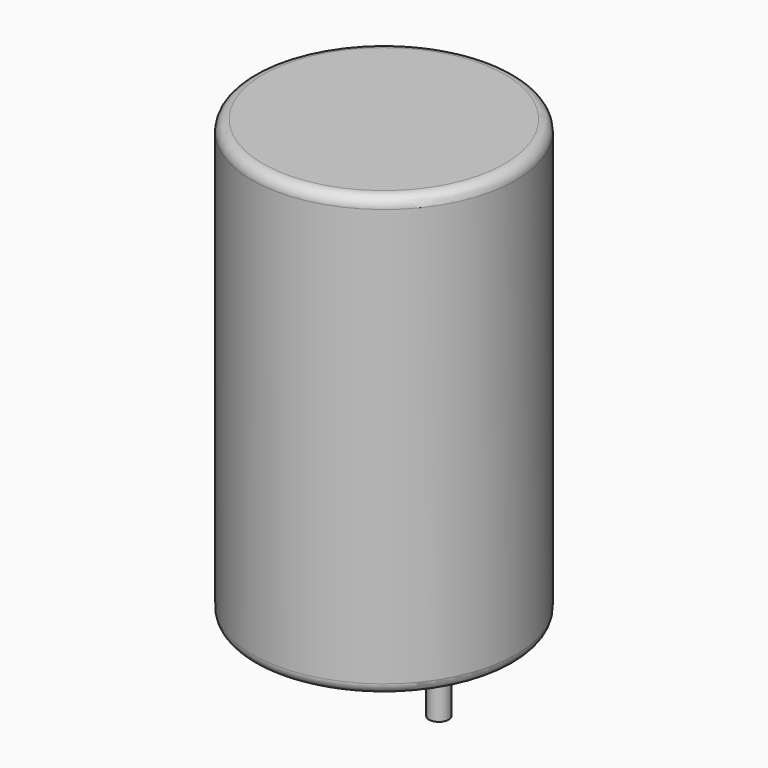
from build123d import *

# Parameters (mm, degrees)
SKETCH001_R       = 0.45
PAD001_DEPTH      = 10
PAD001_DEPTH_BACK = 3.5
SKETCH_R          = 6
PAD_DEPTH         = 20
FILLET_R          = 0.5


with BuildPart() as pad001:
    # Sketch001 → Pad001 (new body, two sides)
    with BuildSketch(Plane.XY.offset(0.5)) as pad001_sk:
        Circle(SKETCH001_R)
        with Locations((5, 0)):
            Circle(SKETCH001_R)
    extrude(amount=PAD001_DEPTH)
    extrude(pad001_sk.sketch, amount=-PAD001_DEPTH_BACK)


with BuildPart() as fillet_body:
    # Sketch → Pad (new body)
    with BuildSketch(Plane.XY.offset(0.1)):
        with Locations((2.5, 0)):
            Circle(SKETCH_R)
    extrude(amount=PAD_DEPTH)

    # Fillet
    fillet_edges = [fillet_body.edges().sort_by_distance(p)[0] for p in [
        (-3.5, 0, 0.1),
        (-3.5, 0, 20.1),
    ]]
    fillet(fillet_edges, radius=FILLET_R)


solid = Compound([pad001.part, fillet_body.part])
